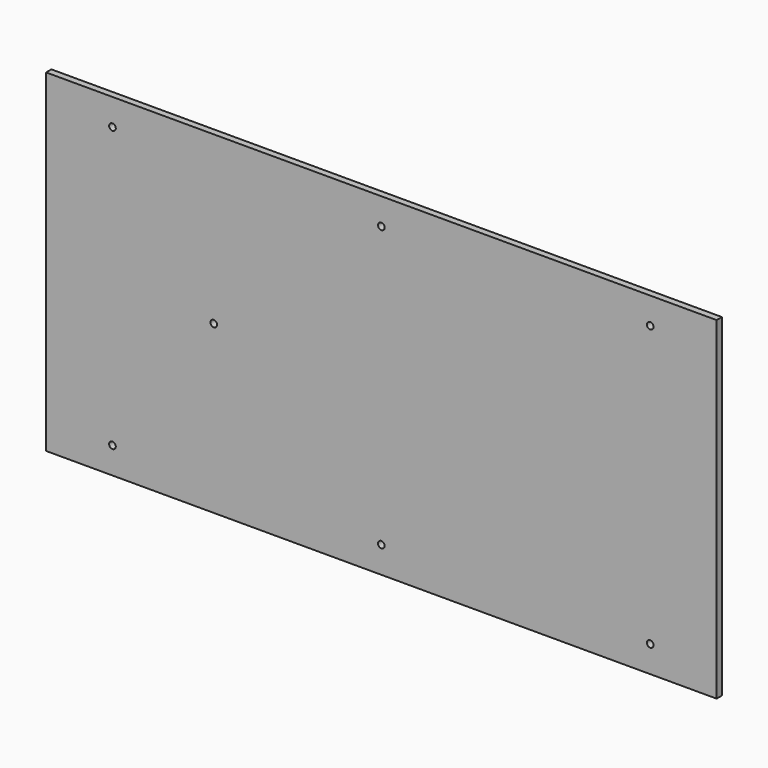
from build123d import *

# Parameters (mm, degrees)
F1_DEPTH = 10


with BuildPart() as f1:
    # F0 (on Front) → F1 (new body)
    with BuildSketch(Plane.XZ):
        with BuildLine():
            Line((0, 502), (0, 251))
            Line((0, 251), (100, 251))
            Line((100, 251), (100, 457))
            ThreePointArc((100, 457), (95, 462), (100, 467))
            Line((100, 467), (100, 502))
            Line((100, 502), (0, 502))
        make_face()
        with BuildLine():
            Line((100, 457), (100, 251))
            Line((100, 251), (247.5, 251))
            ThreePointArc((247.5, 251), (252.5, 256), (257.5, 251))
            Line((257.5, 251), (505, 251))
            Line((505, 251), (505, 457))
            ThreePointArc((505, 457), (500, 462), (505, 467))
            Line((505, 467), (505, 502))
            Line((505, 502), (100, 502))
            Line((100, 502), (100, 467))
            ThreePointArc((100, 467), (103.5355339059, 465.5355339059), (105, 462))
            ThreePointArc((105, 462), (103.5355339059, 458.4644660941), (100, 457))
        make_face()
        with BuildLine():
            Line((910, 502), (505, 502))
            Line((505, 502), (505, 467))
            ThreePointArc((505, 467), (508.5355339059, 465.5355339059), (510, 462))
            ThreePointArc((510, 462), (508.5355339059, 458.4644660941), (505, 457))
            Line((505, 457), (505, 251))
            Line((505, 251), (910, 251))
            Line((910, 251), (910, 457))
            ThreePointArc((910, 457), (905, 462), (910, 467))
            Line((910, 467), (910, 502))
        make_face()
        with BuildLine():
            Line((910, 251), (1010, 251))
            Line((1010, 251), (1010, 502))
            Line((1010, 502), (910, 502))
            Line((910, 502), (910, 467))
            ThreePointArc((910, 467), (913.5355339059, 465.5355339059), (915, 462))
            ThreePointArc((915, 462), (913.5355339059, 458.4644660941), (910, 457))
            Line((910, 457), (910, 251))
        make_face()
        with BuildLine():
            Line((0, 251), (0, 0))
            Line((0, 0), (100, 0))
            Line((100, 0), (100, 35))
            ThreePointArc((100, 35), (95, 40), (100, 45))
            Line((100, 45), (100, 251))
            Line((100, 251), (0, 251))
        make_face()
        with BuildLine():
            Line((100, 35), (100, 0))
            Line((100, 0), (505, 0))
            Line((505, 0), (505, 35))
            ThreePointArc((505, 35), (500, 40), (505, 45))
            Line((505, 45), (505, 251))
            Line((505, 251), (257.5, 251))
            ThreePointArc((257.5, 251), (252.5, 246), (247.5, 251))
            Line((247.5, 251), (100, 251))
            Line((100, 251), (100, 45))
            ThreePointArc((100, 45), (103.5355339059, 43.5355339059), (105, 40))
            ThreePointArc((105, 40), (103.5355339059, 36.4644660941), (100, 35))
        make_face()
        with BuildLine():
            Line((505, 35), (505, 0))
            Line((505, 0), (910, 0))
            Line((910, 0), (910, 35))
            ThreePointArc((910, 35), (905, 40), (910, 45))
            Line((910, 45), (910, 251))
            Line((910, 251), (505, 251))
            Line((505, 251), (505, 45))
            ThreePointArc((505, 45), (508.5355339059, 43.5355339059), (510, 40))
            ThreePointArc((510, 40), (508.5355339059, 36.4644660941), (505, 35))
        make_face()
        with BuildLine():
            Line((910, 35), (910, 0))
            Line((910, 0), (1010, 0))
            Line((1010, 0), (1010, 251))
            Line((1010, 251), (910, 251))
            Line((910, 251), (910, 45))
            ThreePointArc((910, 45), (913.5355339059, 43.5355339059), (915, 40))
            ThreePointArc((915, 40), (913.5355339059, 36.4644660941), (910, 35))
        make_face()
        with BuildLine():
            Line((100, 35), (100, 0))
            Line((100, 0), (505, 0))
            Line((505, 0), (505, 35))
            ThreePointArc((505, 35), (500, 40), (505, 45))
            Line((505, 45), (505, 251))
            Line((505, 251), (257.5, 251))
            ThreePointArc((257.5, 251), (252.5, 246), (247.5, 251))
            Line((247.5, 251), (100, 251))
            Line((100, 251), (100, 45))
            ThreePointArc((100, 45), (103.5355339059, 43.5355339059), (105, 40))
            ThreePointArc((105, 40), (103.5355339059, 36.4644660941), (100, 35))
        make_face()
        with BuildLine():
            Line((100, 457), (100, 251))
            Line((100, 251), (247.5, 251))
            ThreePointArc((247.5, 251), (252.5, 256), (257.5, 251))
            Line((257.5, 251), (505, 251))
            Line((505, 251), (505, 457))
            ThreePointArc((505, 457), (500, 462), (505, 467))
            Line((505, 467), (505, 502))
            Line((505, 502), (100, 502))
            Line((100, 502), (100, 467))
            ThreePointArc((100, 467), (103.5355339059, 465.5355339059), (105, 462))
            ThreePointArc((105, 462), (103.5355339059, 458.4644660941), (100, 457))
        make_face()
        with BuildLine():
            Line((505, 35), (505, 0))
            Line((505, 0), (910, 0))
            Line((910, 0), (910, 35))
            ThreePointArc((910, 35), (905, 40), (910, 45))
            Line((910, 45), (910, 251))
            Line((910, 251), (505, 251))
            Line((505, 251), (505, 45))
            ThreePointArc((505, 45), (508.5355339059, 43.5355339059), (510, 40))
            ThreePointArc((510, 40), (508.5355339059, 36.4644660941), (505, 35))
        make_face()
        with BuildLine():
            Line((910, 502), (505, 502))
            Line((505, 502), (505, 467))
            ThreePointArc((505, 467), (508.5355339059, 465.5355339059), (510, 462))
            ThreePointArc((510, 462), (508.5355339059, 458.4644660941), (505, 457))
            Line((505, 457), (505, 251))
            Line((505, 251), (910, 251))
            Line((910, 251), (910, 457))
            ThreePointArc((910, 457), (905, 462), (910, 467))
            Line((910, 467), (910, 502))
        make_face()
    extrude(amount=F1_DEPTH)


solid = f1.part
